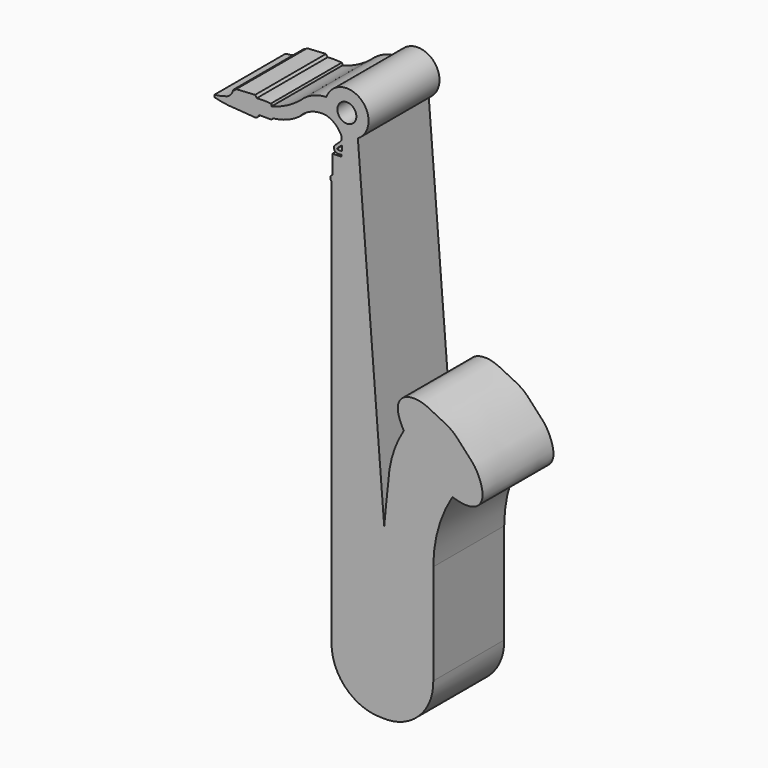
from build123d import *

# Parameters (mm, degrees)
F0_R     = 2.7141078585
F1_DEPTH = 25.4


with BuildPart() as f1:
    # F0 (on Front) → F1 (new body)
    with BuildSketch(Plane.XZ):
        with BuildLine():
            ThreePointArc((-22.7738153189, 67.4887448549), (-22.7921703196, 67.8358713447), (-22.9910891503, 68.1209415197))
            ThreePointArc((-22.9910891503, 68.1209415197), (-25.0060573108, 68.2286465166), (-27.023088187, 68.1713446975))
            Line((-27.023088187, 68.1713446975), (-27.5066569448, 68.85394454))
            Line((-27.5066569448, 68.85394454), (-32.9437144101, 68.5141310096))
            Line((-32.9437144101, 68.5141310096), (-33.2835279405, 68.0987983942))
            Line((-33.2835279405, 68.0987983942), (-33.7743721902, 68.0987983942))
            ThreePointArc((-33.7743721902, 68.0987983942), (-34.3462634703, 66.8075266369), (-35.4356952012, 65.9088715911))
            ThreePointArc((-35.4356952012, 65.9088715911), (-37.2587240978, 65.3860426312), (-39.1359142959, 65.1159659028))
            Line((-39.1359142959, 65.1159659028), (-39.1359142959, 64.4363388419))
            ThreePointArc((-39.1359142959, 64.4363388419), (-36.1603072833, 63.8217018821), (-33.1325009465, 63.5679215193))
            Line((-33.1325009465, 63.5679215193), (-27.6813488454, 63.1581544876))
            ThreePointArc((-27.6813488454, 63.1581544876), (-26.8735932667, 63.4004566777), (-26.4353584498, 64.1209632158))
            Line((-26.4353584498, 64.1209632158), (-22.9910891503, 64.1209632158))
            ThreePointArc((-22.9910891503, 64.1209632158), (-22.6781080436, 64.253804751), (-22.5562322885, 64.5712167025))
            ThreePointArc((-22.5562322885, 64.5712167025), (-18.4875924267, 65.5145236697), (-14.8047618568, 67.4844011664))
            ThreePointArc((-14.8047618568, 67.4844011664), (-11.3362719877, 69.8718364191), (-7.1479254402, 70.3054517508))
            ThreePointArc((-7.1479254402, 70.3054517508), (-4.5277788439, 68.887173808), (-2.767395461, 66.4834827185))
            Line((-2.767395461, 66.4834827185), (-2.767395461, 65.4689446092))
            ThreePointArc((-2.767395461, 65.4689446092), (-3.5294504922, 64.5823352603), (-4.4071897864, 63.8100802898))
            ThreePointArc((-4.4071897864, 63.8100802898), (-4.9300350312, 62.8514010459), (-4.4071897864, 61.892721802))
            ThreePointArc((-4.4071897864, 61.892721802), (-3.5830599954, 61.7025134414), (-2.7589302044, 61.892721802))
            Line((-2.7589302044, 61.892721802), (-2.7589302044, 61.2999945879))
            Line((-2.7589302044, 61.2999945879), (-5.3555453196, 61.2048506737))
            Line((-5.3555453196, 61.2048506737), (-5.3555453196, 55.8223612607))
            ThreePointArc((-5.3555453196, 55.8223612607), (-5.9594502353, 55.0634497993), (-5.6238677353, 54.1534870863))
            Line((-5.6238677353, 54.1534870863), (-5.6238677353, -62.3845234513))
            ThreePointArc((-5.6238677353, -62.3845234513), (-1.3942884576, -72.4420651841), (8.752037771, -76.4539912343))
            ThreePointArc((8.752037771, -76.4539912343), (19.2657252949, -72.6993263655), (23.5365536064, -62.3845234513))
            Line((23.5365536064, -62.3845234513), (23.5365536064, -33.6043648422))
            ThreePointArc((23.5365536064, -33.6043648422), (24.933910985, -23.5189061999), (29.0207061917, -14.1932861879))
            add(Edge.make_bspline(
                [(15.0863882154, -2.0259027369), (15.7751326223, -3.2505053697), (17.6936460501, -6.0170930074), (22.1426691232, -9.8903754066), (25.8443379941, -12.661596163), (27.8917323554, -13.7772074835), (29.0207061917, -14.1932861879)],
                knots=[0.7563963627, 0.7563963627, 0.7563963627, 0.7563963627, 0.8175150943, 0.8867084098, 0.9473596072, 1, 1, 1, 1], degree=3))
            ThreePointArc((15.0863882154, -2.0259027369), (11.9584402409, -8.9105003241), (10.6517327949, -16.3586046547))
            ThreePointArc((10.6517327949, -16.3586046547), (10.0329411481, -22.1782742655), (9.4761149958, -28.0041992664))
            Line((9.4761149958, -28.0041992664), (1.9279766129, 67.4677416682))
            ThreePointArc((1.9279766129, 67.4677416682), (2.7407517304, 77.6242133721), (-7.0869945921, 74.935361743))
            ThreePointArc((-7.0869945921, 74.935361743), (-11.0595166202, 74.0372345412), (-14.4465807825, 71.7755183578))
            ThreePointArc((-14.4465807825, 71.7755183578), (-18.3642549618, 69.1543770007), (-22.7738153189, 67.4887448549))
        make_face()
        with BuildLine():
            ThreePointArc((-4.0688263252, 62.8514010459), (-3.3795349876, 63.606439902), (-2.557102358, 64.2137378454))
            Line((-2.557102358, 64.2137378454), (-2.557102358, 62.7673044801))
            ThreePointArc((-2.557102358, 62.7673044801), (-3.3196654997, 62.688892419), (-4.0688263252, 62.8514010459))
        make_face(mode=Mode.SUBTRACT)
        with Locations((-1.2195954115, 72.8432503492)):
            Circle(F0_R, mode=Mode.SUBTRACT)
        with BuildLine():
            add(Edge.make_bspline(
                [(29.0207061917, -14.1932861879), (30.2406466138, -14.6428902567), (32.9345834701, -15.2660315276), (36.2950164372, -14.5598167886), (38.0289094793, -11.7249246551), (37.2229168354, -7.6270218622), (35.2595789438, -3.9096619981), (32.3422375337, -1.020258382), (29.2120266668, 2.6106692647), (25.6048078466, 4.3930678157), (22.336210848, 6.0562350188), (18.9164254173, 7.3992483014), (14.6205334195, 6.7650587121), (13.0669516392, 3.8166109603), (13.6816516209, 0.8811160705), (14.5097147517, -1.0005646945), (15.0863882154, -2.0259027369)],
                knots=[0, 0, 0, 0, 0.0568818701, 0.1073544142, 0.1553694094, 0.2119304349, 0.2697329624, 0.3271327508, 0.3886771292, 0.4451547567, 0.4990018162, 0.5532498973, 0.6095065881, 0.6575515351, 0.705222734, 0.7563963627, 0.7563963627, 0.7563963627, 0.7563963627], degree=3))
            add(Edge.make_bspline(
                [(15.0863882154, -2.0259027369), (15.7751326223, -3.2505053697), (17.6936460501, -6.0170930074), (22.1426691232, -9.8903754066), (25.8443379941, -12.661596163), (27.8917323554, -13.7772074835), (29.0207061917, -14.1932861879)],
                knots=[0.7563963627, 0.7563963627, 0.7563963627, 0.7563963627, 0.8175150943, 0.8867084098, 0.9473596072, 1, 1, 1, 1], degree=3))
        make_face()
    extrude(amount=F1_DEPTH)


solid = f1.part
